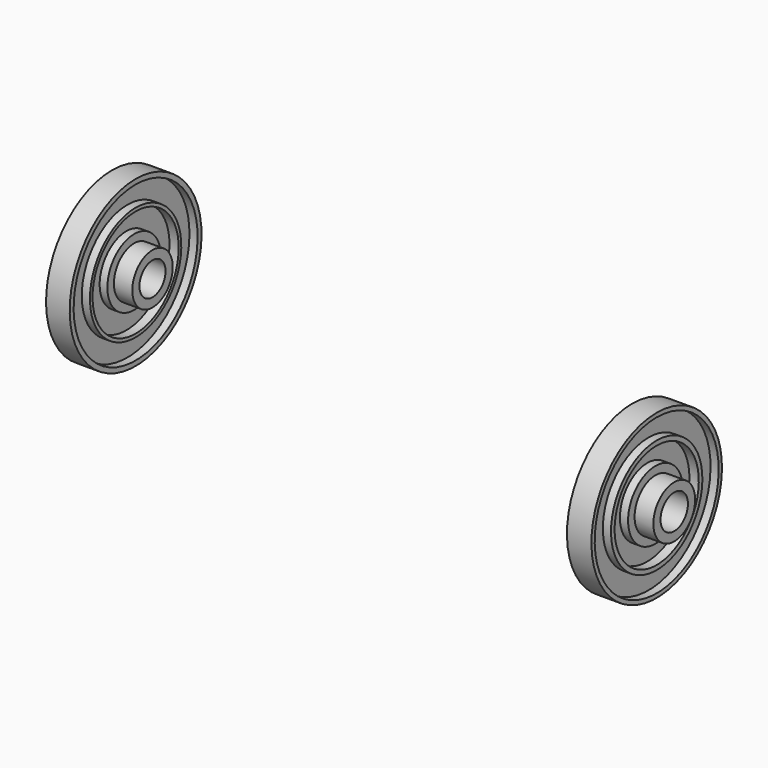
from build123d import *


with BuildPart() as f3:
    # F1 (on Front) → F3 (revolve)
    with BuildSketch(Plane.XZ):
        Polygon((34.526415, -3.069505), (39.496415, -3.069505), (39.496415, -1.969505), (37.246415, -1.969505), (37.246415, -0.969505), (36.296415, -0.969505), (36.296415, 1.530495), (37.426415, 1.530495), (37.426415, 1.930495), (36.426415, 1.930495), (36.426415, 4.430495), (37.426415, 4.430495), (37.426415, 5.030495), (34.526415, 5.030495), align=None)
    revolve(axis=Axis((38.857302, 0, -5.069505), (-1, 0, 0)))


with BuildPart() as f5:
    # F4 (on Front) → F5 (revolve)
    with BuildSketch(Plane.XZ):
        Polygon((98.305207, -7.317564), (103.455207, -7.317564), (103.455207, -6.217564), (101.155207, -6.217564), (101.155207, -5.217564), (100.155207, -5.217564), (100.155207, -2.967564), (101.305207, -2.967564), (101.305207, -2.417564), (100.305207, -2.417564), (100.305207, 0.082436), (101.305207, 0.082436), (101.305207, 0.582436), (98.305207, 0.582436), align=None)
    revolve(axis=Axis((102.816093, 0, -9.417564), (-1, 0, 0)))


solid = Compound([f3.part, f5.part])
